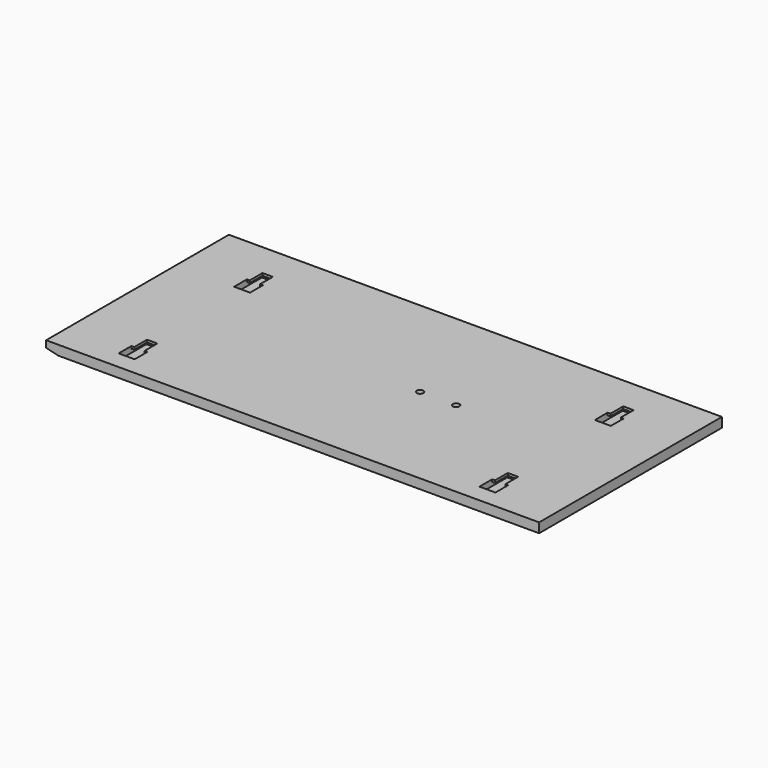
from build123d import *

# Parameters (mm, degrees)
F0_W      = 520.7
F0_H      = 241.3
F1_DEPTH  = 10.16
F3_W      = 16.891
F3_H      = 36.703
F4_DEPTH  = 6.35
F5_W      = 2.9845
F5_H      = 19.812
F6_DEPTH  = 2.54
F7_W      = 10.922
F7_H      = 2.9845
F8_DEPTH  = 2.54
F2_R      = 3.4925
F9_DEPTH  = 5.08
F11_DEPTH = 254


with BuildPart() as f1:
    # F0 (on Top) → F1 (new body)
    with BuildSketch(Plane.XY):
        with Locations((260.35, 120.65)):
            Rectangle(F0_W, F0_H)
    extrude(amount=F1_DEPTH)

    # F3 (on face) → F4 (cut)
    with BuildSketch(Plane.XY.offset(10.16)):
        with Locations((69.85, 189.8015)):
            Rectangle(F3_W, F3_H)
        with Locations((69.85, 37.4015)):
            Rectangle(F3_W, F3_H)
        with Locations((450.85, 37.4015)):
            Rectangle(F3_W, F3_H)
        with Locations((450.85, 189.8015)):
            Rectangle(F3_W, F3_H)
    extrude(amount=-F4_DEPTH, mode=Mode.SUBTRACT)

    # F5 (on face) → F6 (join)
    with BuildSketch(Plane.XY.offset(10.16)):
        with Locations((62.89675, 198.247)):
            Rectangle(F5_W, F5_H)
        with Locations((76.80325, 198.247)):
            Rectangle(F5_W, F5_H)
        Polygon((64.389, 55.753), (61.4045, 55.753), (61.4045, 35.941), (64.389, 35.941), (64.389, 52.578), align=None)
        Polygon((78.2955, 55.753), (75.311, 55.753), (75.311, 52.578), (75.311, 35.941), (78.2955, 35.941), align=None)
        with Locations((457.80325, 45.847)):
            Rectangle(F5_W, F5_H)
        with Locations((443.89675, 45.847)):
            Rectangle(F5_W, F5_H)
        with Locations((443.89675, 198.247)):
            Rectangle(F5_W, F5_H)
        with Locations((457.80325, 198.247)):
            Rectangle(F5_W, F5_H)
    extrude(amount=-F6_DEPTH)

    # F7 (on face) → F8 (join)
    with BuildSketch(Plane.XY.offset(10.16)):
        with Locations((69.85, 54.26075)):
            Rectangle(F7_W, F7_H)
        with Locations((69.85, 206.66075)):
            Rectangle(F7_W, F7_H)
        with Locations((450.85, 54.26075)):
            Rectangle(F7_W, F7_H)
        with Locations((450.85, 206.66075)):
            Rectangle(F7_W, F7_H)
    extrude(amount=-F8_DEPTH)

    # F2 (on face) → F9 (cut)
    with BuildSketch(Plane.XY.offset(10.16)):
        with Locations((298.45, 120.65)):
            Circle(F2_R)
        with Locations((336.55, 120.65)):
            Circle(F2_R)
    extrude(amount=-F9_DEPTH, mode=Mode.SUBTRACT)

    # F10 (on face) → F11 (cut)
    with BuildSketch(Plane.XZ):
        Polygon((12.7, 0), (0, 3.175), (0, 0), align=None)
    extrude(amount=-F11_DEPTH, mode=Mode.SUBTRACT)


solid = f1.part
